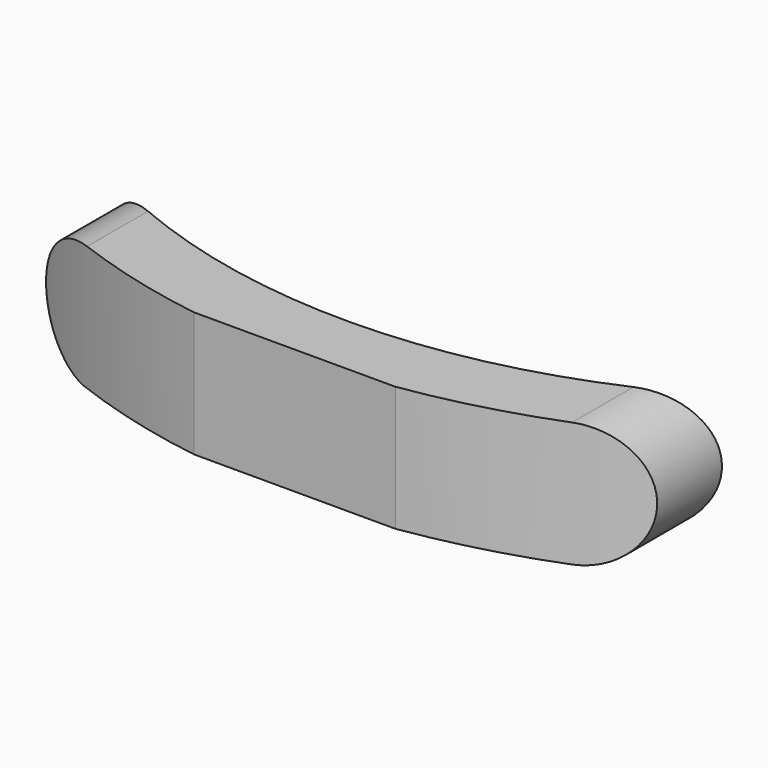
from build123d import *

# Parameters (mm, degrees)
F1_DEPTH = 35
F3_DEPTH = 29.010506
F4_DEPTH = 29.010506


with BuildPart() as f1:
    # F0 (on Front) → F1 (new body)
    with BuildSketch(Plane.XZ):
        with BuildLine():
            Line((57.11247, 0), (-54.619476, 0))
            ThreePointArc((-54.619476, 0), (-69.140156, -13.855967), (-55.979297, -29.009506))
            Line((-55.979297, -29.009506), (57.11247, -29.009506))
            ThreePointArc((57.11247, -29.009506), (71.617223, -14.504753), (57.11247, 0))
        make_face()
    extrude(amount=F1_DEPTH)

    # F2 (on Top) → F3 (cut, through all)
    with BuildSketch(Plane.XY):
        with BuildLine():
            Line((102.996904, 24.844682), (-105.220917, 27.318733))
            ThreePointArc((-105.220917, 27.318733), (-1.663367, -20.32119), (102.996904, 24.844682))
        make_face()
    extrude(amount=-F3_DEPTH, mode=Mode.SUBTRACT)

    # F2 (on Top) → F4 (cut, through all)
    with BuildSketch(Plane.XY):
        with BuildLine():
            ThreePointArc((115.077005, 13.723119), (-1.858457, -36.74008), (-117.561864, 16.487342))
            Line((-117.561864, 16.487342), (-117.561864, -55.866256))
            Line((-117.561864, -55.866256), (118.521035, -63.760579))
            Line((118.521035, -63.760579), (115.077005, 13.723119))
        make_face()
    extrude(amount=-F4_DEPTH, mode=Mode.SUBTRACT)


solid = f1.part
